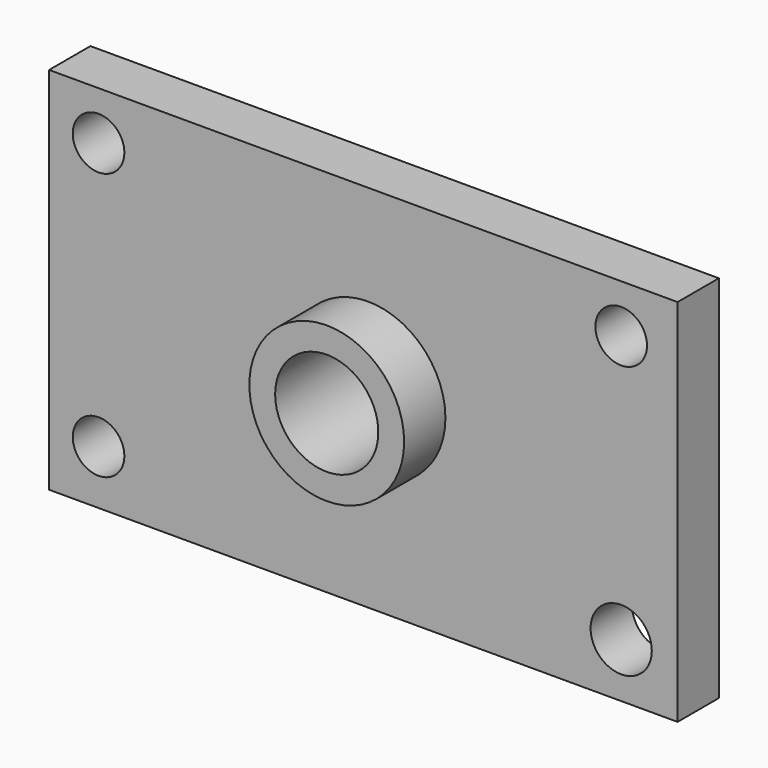
from build123d import *

# Parameters (mm, degrees)
F0_R     = 19.05
F1_DEPTH = 25.4
F0_W     = 154.669017
F0_H     = 90.966787
F0_R_2   = 6.35
F0_R_3   = 7.532176
F2_DEPTH = 12.7
F3_D     = 25.4


with BuildPart() as f1:
    # F0 (on Front) → F1 (new body)
    with BuildSketch(Plane.XZ):
        with Locations((-18.855859, 0)):
            Circle(F0_R)
    extrude(amount=F1_DEPTH)

    # F0 (on Front) → F2 (join)
    with BuildSketch(Plane.XZ):
        with Locations((-20.002499, -1.783664)):
            Rectangle(F0_W, F0_H)
        with Locations((-85.171133, -33.938222)):
            Circle(F0_R_2, mode=Mode.SUBTRACT)
        with Locations((43.452755, -33.938222)):
            Circle(F0_R_3, mode=Mode.SUBTRACT)
        with Locations((-85.171133, 31.799983)):
            Circle(F0_R_2, mode=Mode.SUBTRACT)
        with Locations((-18.855859, 0)):
            Circle(F0_R, mode=Mode.SUBTRACT)
        with Locations((43.452755, 31.799983)):
            Circle(F0_R_2, mode=Mode.SUBTRACT)
    extrude(amount=F2_DEPTH)

    # F3 (through all)
    with Locations(Plane(origin=(0, 0, 0), x_dir=(1, 0, 0), z_dir=(0, 1, 0))):
        with Locations((-18.855859, 0)):
            Hole(F3_D / 2)


solid = f1.part
